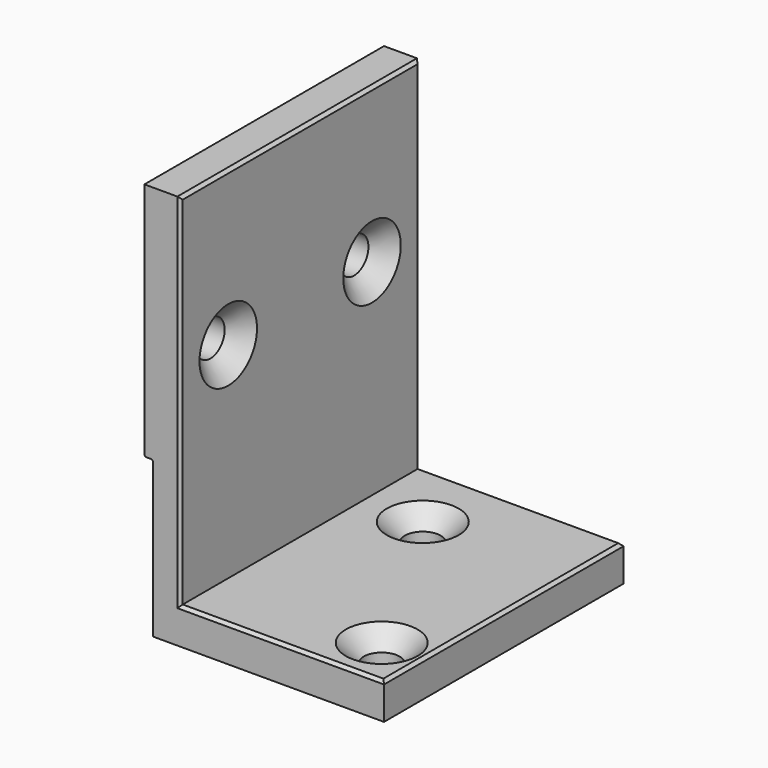
from build123d import *

# Parameters (mm, degrees)
F1_DEPTH       = 50
F3_D           = 6
F3_DEPTH       = 12
F3_CSINK_D     = 12
F3_CSINK_ANGLE = 90
F5_D           = 6
F5_DEPTH       = 12
F5_CSINK_D     = 12
F5_CSINK_ANGLE = 90
F6_SIZE        = 0.5
F7_SIZE        = 0.2


with BuildPart() as f1:
    # F0 (on Front) → F1 (new body)
    with BuildSketch(Plane.XZ):
        Polygon((0, 26), (0, 0), (38.6, 0), (38.6, 6), (4.6, 6), (4.6, 66), (-1.4, 66), (-1.4, 26), align=None)
    extrude(amount=F1_DEPTH)

    # F3
    with Locations(Plane.YZ.offset(4.6)):
        with Locations((-40, 40.3), (-10, 40.3)):
            CounterSinkHole(F3_D / 2, F3_CSINK_D / 2, depth=F3_DEPTH, counter_sink_angle=F3_CSINK_ANGLE)

    # F5
    with Locations(Plane.XY.offset(6)):
        with Locations((14.45, -11.727238), (31.6, -41.727238)):
            CounterSinkHole(F5_D / 2, F5_CSINK_D / 2, depth=F5_DEPTH, counter_sink_angle=F5_CSINK_ANGLE)

    # F6
    f6_edges = [f1.edges().sort_by_distance(p)[0] for p in [
        (4.6, -25, 66),
        (4.6, -50, 36),
        (4.6, 0, 36),
        (21.6, -50, 6),
        (38.6, -25, 6),
        (21.6, 0, 6),
    ]]
    chamfer(f6_edges, length=F6_SIZE)

    # F7
    f7_edges = [f1.edges().sort_by_distance(p)[0] for p in [
        (-1.4, -25, 26),
        (0, -25, 26),
    ]]
    chamfer(f7_edges, length=F7_SIZE)


solid = f1.part
